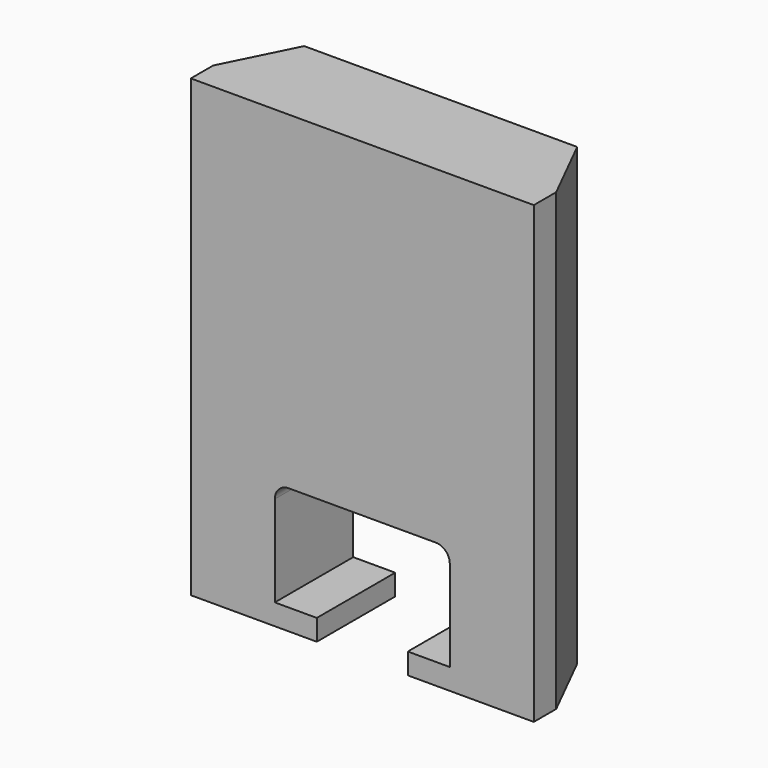
from build123d import *

# Parameters (mm, degrees)
F1_DEPTH = 14
F2_SIZE2 = 5
F2_SIZE  = 10


with BuildPart() as f1:
    # F0 (on Front) → F1 (new body)
    with BuildSketch(Plane.XZ):
        with BuildLine():
            Line((-6, 0), (0, 0))
            Line((0, 0), (12, 0))
            Line((12, 0), (12, 65))
            Line((12, 65), (-37, 65))
            Line((-37, 65), (-37, 0))
            Line((-37, 0), (-25, 0))
            Line((-25, 0), (-19, 0))
            Line((-19, 0), (-19, 3))
            Line((-19, 3), (-25, 3))
            Line((-25, 3), (-25, 16))
            ThreePointArc((-25, 16), (-24.414214, 17.414214), (-23, 18))
            Line((-23, 18), (-2, 18))
            ThreePointArc((-2, 18), (-0.585786, 17.414214), (0, 16))
            Line((0, 16), (0, 3))
            Line((0, 3), (-6, 3))
            Line((-6, 3), (-6, 0))
        make_face()
    extrude(amount=F1_DEPTH)

    # F2
    f2_edges = [f1.edges().sort_by_distance(p)[0] for p in [
        (12, 0, 32.5),
        (-37, 0, 32.5),
    ]]
    chamfer(f2_edges, length=F2_SIZE, length2=F2_SIZE2)


solid = f1.part
